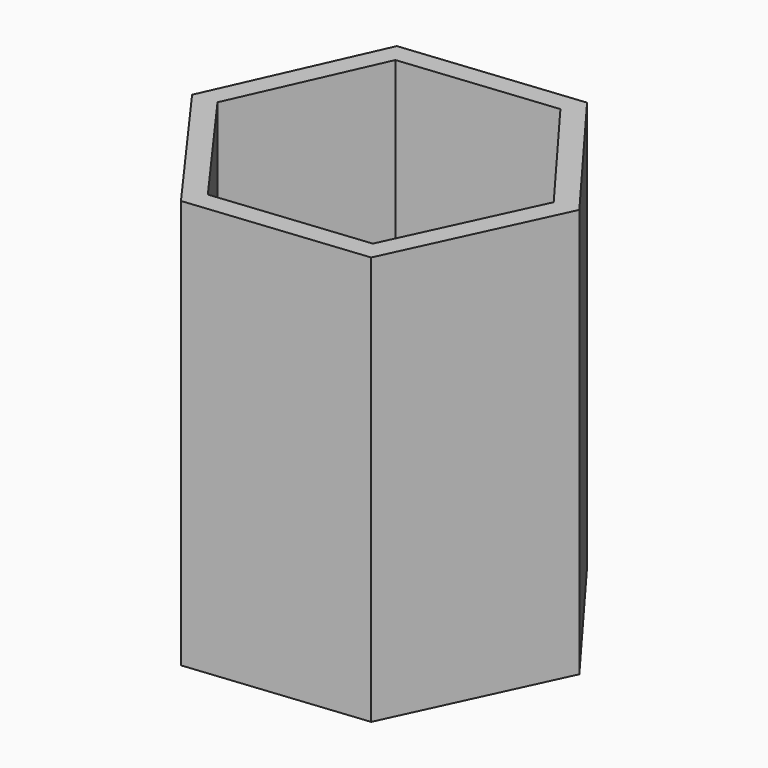
from build123d import *

# Parameters (mm, degrees)
F1_DEPTH = 4
F2_DEPTH = 80


with BuildPart() as f1:
    # F0 (on Top) → F1 (new body)
    with BuildSketch(Plane.XY):
        Polygon((-30.405549, -3.134592), (-12.488138, -27.899274), (17.343104, -24.823888), (30.364717, 3.130383), (11.913831, 27.840067), (-17.917411, 24.764681), align=None)
    extrude(amount=F1_DEPTH)

    # F0 (on Top) → F2 (join)
    with BuildSketch(Plane.XY):
        Polygon((13.76108, 32.051705), (-20.624834, 28.506766), (-35, -3.608247), (-14.375166, -32.115013), (20.010747, -28.570073), (35, 3.608247), align=None)
        Polygon((17.343104, -24.823888), (-12.488138, -27.899274), (-30.405549, -3.134592), (-17.917411, 24.764681), (11.913831, 27.840067), (30.364717, 3.130383), align=None, mode=Mode.SUBTRACT)
    extrude(amount=F2_DEPTH)


solid = f1.part
